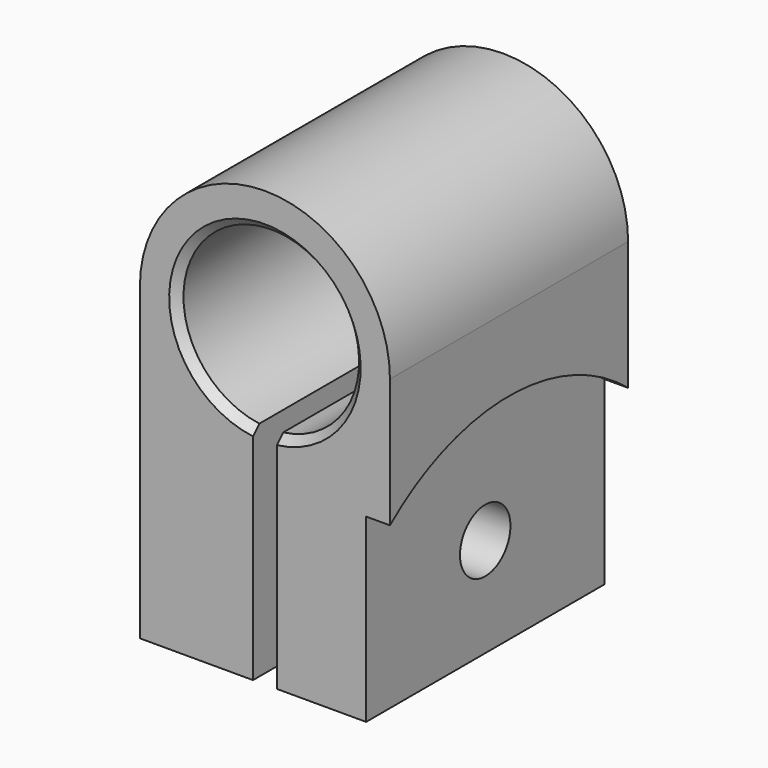
from build123d import *

# Parameters (mm, degrees)
F1_DEPTH = 19.05
F2_SIZE  = 0.508
F4_DEPTH = 1.524
F6_D     = 4.0386
F6_DEPTH = 5.93725
F6_TIP   = 1.213317848


with BuildPart() as f1:
    # F0 (on Front) → F1 (new body)
    with BuildSketch(Plane.XZ):
        with BuildLine():
            Line((8.001, -19.812), (8.001, 0))
            ThreePointArc((8.001, 0), (0, 8.001), (-8.001, 0))
            Line((-8.001, 0), (-8.001, -19.812))
            Line((-8.001, -19.812), (-0.762, -19.812))
            Line((-0.762, -19.812), (-0.762, -5.5675371219))
            ThreePointArc((-0.762, -5.5675371219), (0, 5.6194406842), (0.762, -5.5675371219))
            Line((0.762, -5.5675371219), (0.762, -19.812))
            Line((0.762, -19.812), (8.001, -19.812))
        make_face()
    extrude(amount=F1_DEPTH)

    # F2
    f2_edges = [f1.edges().sort_by_distance(p)[0] for p in [
        (0, -19.05, 5.619441),
    ]]
    chamfer(f2_edges, length=F2_SIZE)

    # F3 (on face) → F4 (cut)
    with BuildSketch(Plane.YZ.offset(8.001)):
        with BuildLine():
            Line((0, -19.812), (0, -8.2424463785))
            ThreePointArc((0, -8.2424463785), (-9.525, -4.826), (-19.05, -8.2424463785))
            Line((-19.05, -8.2424463785), (-19.05, -19.812))
            Line((-19.05, -19.812), (0, -19.812))
        make_face()
    extrude(amount=-F4_DEPTH, mode=Mode.SUBTRACT)

    # F6
    with Locations(Plane.YZ.offset(6.477)):
        with Locations((-9.525, -13.462)):
            Hole(F6_D / 2, depth=F6_DEPTH)
            with Locations((0, 0, -(F6_DEPTH + F6_TIP / 2))):  # 118° drill point
                Cone(0, F6_D / 2, F6_TIP, mode=Mode.SUBTRACT)


solid = f1.part
